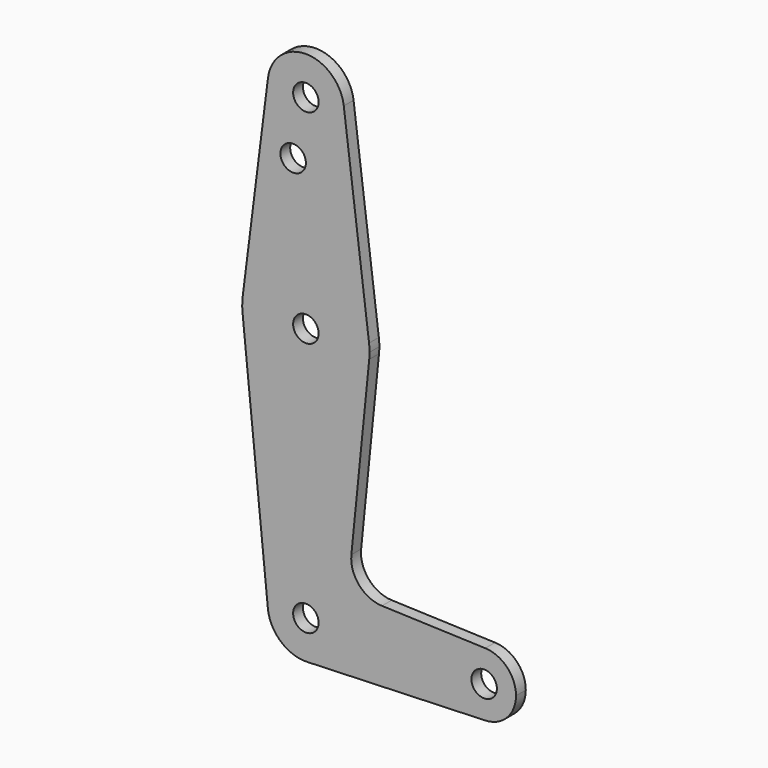
from build123d import *

# Parameters (mm, degrees)
F0_R     = 3.175
F1_DEPTH = 3.048


with BuildPart() as f1:
    # F0 (on Front) → F1 (new body)
    with BuildSketch(Plane.XZ):
        with BuildLine():
            ThreePointArc((15.795426, -1.5875), (15.855094, -0.794747), (15.875, 0))
            ThreePointArc((15.875, 0), (15.843841, 0.994139), (15.750488, 1.984375))
            ThreePointArc((15.750488, 1.984375), (0, 15.875), (-15.750488, 1.984375))
            ThreePointArc((-15.750488, 1.984375), (-15.873744, 0.199705), (-15.795426, -1.5875))
            ThreePointArc((-15.795426, -1.5875), (0, -15.875), (15.795426, -1.5875))
        make_face()
        Circle(F0_R, mode=Mode.SUBTRACT)
        with BuildLine():
            ThreePointArc((-15.750488, 1.984375), (0, 15.875), (15.750488, 1.984375))
            Line((15.750488, 1.984375), (9.450293, 51.990625))
            ThreePointArc((9.450293, 51.990625), (9.506305, 51.396483), (9.525, 50.8))
            ThreePointArc((9.525, 50.8), (-0.596483, 41.293695), (-9.450293, 51.990625))
            Line((-9.450293, 51.990625), (-15.750488, 1.984375))
        make_face()
        with Locations((-3.175, 36.3982)):
            Circle(F0_R, mode=Mode.SUBTRACT)
        with BuildLine():
            Line((11.341187, -45.906618), (15.795426, -1.5875))
            ThreePointArc((15.795426, -1.5875), (0, -15.875), (-15.795426, -1.5875))
            Line((-15.795426, -1.5875), (-9.477255, -64.4525))
            ThreePointArc((-9.477255, -64.4525), (-0.476848, -53.986944), (9.525, -63.5))
            ThreePointArc((9.525, -63.5), (6.854408, -70.113827), (0.340179, -73.018923))
            Line((0.340179, -73.018923), (44.733482, -71.432436))
            ThreePointArc((44.733482, -71.432436), (36.5125, -63.5), (44.733482, -55.567564))
            Line((44.733482, -55.567564), (18.9676, -54.646766))
            ThreePointArc((18.9676, -54.646766), (13.2612, -51.928641), (11.341187, -45.906618))
        make_face()
        with BuildLine():
            ThreePointArc((9.525, 50.8), (9.506305, 51.396483), (9.450293, 51.990625))
            ThreePointArc((9.450293, 51.990625), (0, 60.325), (-9.450293, 51.990625))
            ThreePointArc((-9.450293, 51.990625), (-0.596483, 41.293695), (9.525, 50.8))
        make_face()
        with Locations((0, 50.8)):
            Circle(F0_R, mode=Mode.SUBTRACT)
        with BuildLine():
            ThreePointArc((9.525, -63.5), (-0.476848, -53.986944), (-9.477255, -64.4525))
            ThreePointArc((-9.477255, -64.4525), (-6.262383, -70.67692), (0.340179, -73.018923))
            ThreePointArc((0.340179, -73.018923), (6.854408, -70.113827), (9.525, -63.5))
        make_face()
        with Locations((0, -63.5)):
            Circle(F0_R, mode=Mode.SUBTRACT)
        with BuildLine():
            ThreePointArc((52.3875, -63.5), (50.162007, -57.988477), (44.733482, -55.567564))
            ThreePointArc((44.733482, -55.567564), (36.5125, -63.5), (44.733482, -71.432436))
            ThreePointArc((44.733482, -71.432436), (50.162007, -69.011523), (52.3875, -63.5))
        make_face()
        with Locations((44.45, -63.5)):
            Circle(F0_R, mode=Mode.SUBTRACT)
    extrude(amount=F1_DEPTH)


solid = f1.part
